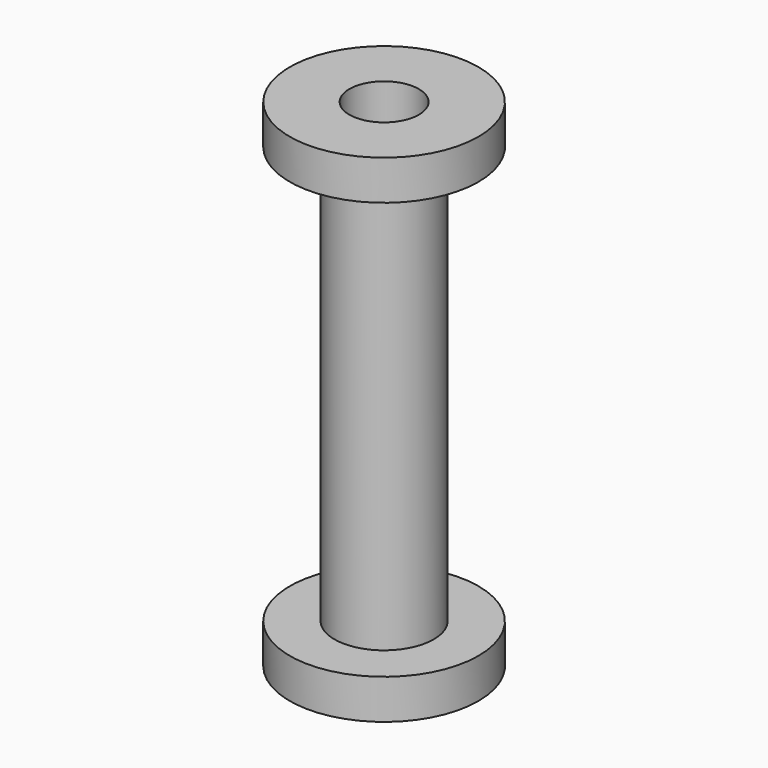
from build123d import *

# Parameters (mm, degrees)
F0_W     = 5
F0_H     = 42
F2_R     = 3.5
F3_DEPTH = 71


with BuildPart() as f1:
    # F0 (on Front) → F1 (revolve)
    with BuildSketch(Plane.XZ):
        Polygon((14.222441, -14.179145), (4.722441, -14.179145), (4.722441, -18.179145), (9.722441, -18.179145), (14.222441, -18.179145), align=None)
        with Locations((7.222441, -39.179145)):
            Rectangle(F0_W, F0_H)
        Polygon((9.722441, -60.179145), (4.722441, -60.179145), (4.722441, -64.179145), (14.222441, -64.179145), (14.222441, -60.179145), align=None)
    revolve(axis=Axis((4.722441, 0, -38.490642), (0, 0, -1)))

    # F2 (on Top) → F3 (cut)
    with BuildSketch(Plane.XY):
        with Locations((4.722441, 0)):
            Circle(F2_R)
    extrude(amount=-F3_DEPTH, mode=Mode.SUBTRACT)


solid = f1.part
